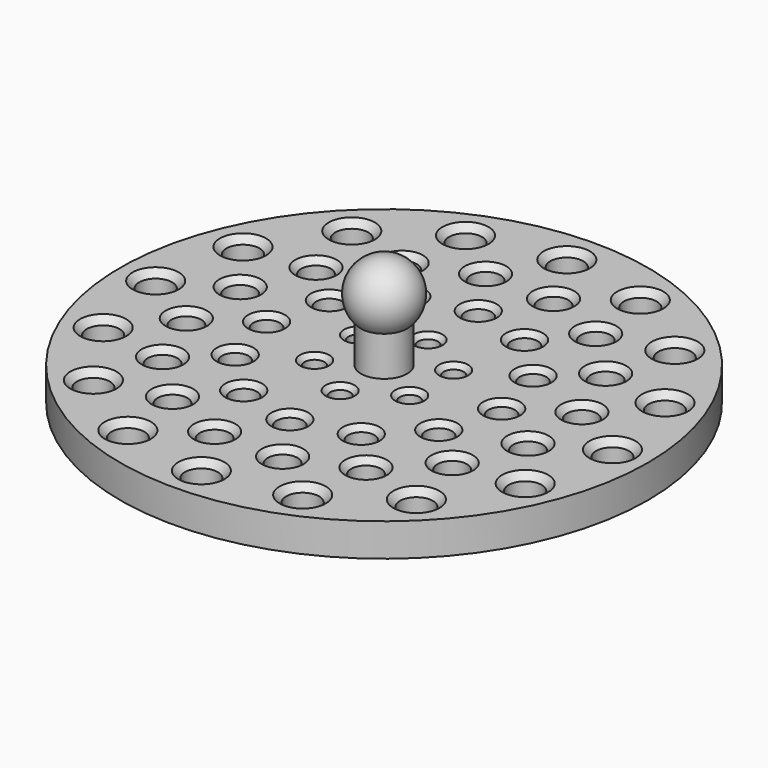
from build123d import *

# Parameters (mm, degrees)
F0_R     = 40
F0_R_2   = 2.5
F0_R_3   = 2.25
F0_R_4   = 2
F0_R_5   = 1.5
F0_R_6   = 3.5
F1_DEPTH = 5
F2_DEPTH = 15
F3_SIZE  = 1
F4_SIZE  = 0.9
F5_SIZE  = 0.8
F6_SIZE  = 0.7


with BuildPart() as f1:
    # F0 (on Top) → F1 (new body)
    with BuildSketch(Plane.XY):
        Circle(F0_R)
        with Locations((-24.473611, -24.473611)):
            Circle(F0_R_2, mode=Mode.SUBTRACT)
        with Locations((-13.245023, -31.976313)):
            Circle(F0_R_2, mode=Mode.SUBTRACT)
        with Locations((-14.518312, -21.934777)):
            Circle(F0_R_3, mode=Mode.SUBTRACT)
        with Locations((-5.019096, -25.821009)):
            Circle(F0_R_3, mode=Mode.SUBTRACT)
        with Locations((-31.976313, -13.245023)):
            Circle(F0_R_2, mode=Mode.SUBTRACT)
        with Locations((-21.807248, -14.709174)):
            Circle(F0_R_3, mode=Mode.SUBTRACT)
        with Locations((-25.776227, -5.244233)):
            Circle(F0_R_3, mode=Mode.SUBTRACT)
        with Locations((-8.927124, -15.431071)):
            Circle(F0_R_4, mode=Mode.SUBTRACT)
        with Locations((-0.015581, -17.827261)):
            Circle(F0_R_4, mode=Mode.SUBTRACT)
        with Locations((-15.446652, -8.900137)):
            Circle(F0_R_4, mode=Mode.SUBTRACT)
        with Locations((-7.208652, -4.161917)):
            Circle(F0_R_5, mode=Mode.SUBTRACT)
        with Locations((0, -34.610912)):
            Circle(F0_R_2, mode=Mode.SUBTRACT)
        with Locations((13.245023, -31.976313)):
            Circle(F0_R_2, mode=Mode.SUBTRACT)
        with Locations((5.244233, -25.776227)):
            Circle(F0_R_3, mode=Mode.SUBTRACT)
        with Locations((14.709174, -21.807248)):
            Circle(F0_R_3, mode=Mode.SUBTRACT)
        with Locations((24.473611, -24.473611)):
            Circle(F0_R_2, mode=Mode.SUBTRACT)
        with Locations((8.900137, -15.446652)):
            Circle(F0_R_4, mode=Mode.SUBTRACT)
        with Locations((0, -8.323834)):
            Circle(F0_R_5, mode=Mode.SUBTRACT)
        with Locations((7.208652, -4.161917)):
            Circle(F0_R_5, mode=Mode.SUBTRACT)
        with Locations((15.431071, -8.927124)):
            Circle(F0_R_4, mode=Mode.SUBTRACT)
        with Locations((17.827261, -0.015581)):
            Circle(F0_R_4, mode=Mode.SUBTRACT)
        with Locations((21.934777, -14.518312)):
            Circle(F0_R_3, mode=Mode.SUBTRACT)
        with Locations((31.976313, -13.245023)):
            Circle(F0_R_2, mode=Mode.SUBTRACT)
        with Locations((25.821009, -5.019096)):
            Circle(F0_R_3, mode=Mode.SUBTRACT)
        with Locations((-34.610912, 0)):
            Circle(F0_R_2, mode=Mode.SUBTRACT)
        with Locations((-25.821009, 5.019096)):
            Circle(F0_R_3, mode=Mode.SUBTRACT)
        with Locations((-31.976313, 13.245023)):
            Circle(F0_R_2, mode=Mode.SUBTRACT)
        with Locations((-21.934777, 14.518312)):
            Circle(F0_R_3, mode=Mode.SUBTRACT)
        with Locations((-17.827261, 0.015581)):
            Circle(F0_R_4, mode=Mode.SUBTRACT)
        with Locations((-15.431071, 8.927124)):
            Circle(F0_R_4, mode=Mode.SUBTRACT)
        with Locations((-7.208652, 4.161917)):
            Circle(F0_R_5, mode=Mode.SUBTRACT)
        with Locations((-8.900137, 15.446652)):
            Circle(F0_R_4, mode=Mode.SUBTRACT)
        with Locations((-24.473611, 24.473611)):
            Circle(F0_R_2, mode=Mode.SUBTRACT)
        with Locations((-14.709174, 21.807248)):
            Circle(F0_R_3, mode=Mode.SUBTRACT)
        with Locations((-5.244233, 25.776227)):
            Circle(F0_R_3, mode=Mode.SUBTRACT)
        with Locations((-13.245023, 31.976313)):
            Circle(F0_R_2, mode=Mode.SUBTRACT)
        Circle(F0_R_6, mode=Mode.SUBTRACT)
        with Locations((7.208652, 4.161917)):
            Circle(F0_R_5, mode=Mode.SUBTRACT)
        with Locations((0, 8.323834)):
            Circle(F0_R_5, mode=Mode.SUBTRACT)
        with Locations((15.446652, 8.900137)):
            Circle(F0_R_4, mode=Mode.SUBTRACT)
        with Locations((0.015581, 17.827261)):
            Circle(F0_R_4, mode=Mode.SUBTRACT)
        with Locations((8.927124, 15.431071)):
            Circle(F0_R_4, mode=Mode.SUBTRACT)
        with Locations((25.776227, 5.244233)):
            Circle(F0_R_3, mode=Mode.SUBTRACT)
        with Locations((34.610912, 0)):
            Circle(F0_R_2, mode=Mode.SUBTRACT)
        with Locations((21.807248, 14.709174)):
            Circle(F0_R_3, mode=Mode.SUBTRACT)
        with Locations((31.976313, 13.245023)):
            Circle(F0_R_2, mode=Mode.SUBTRACT)
        with Locations((5.019096, 25.821009)):
            Circle(F0_R_3, mode=Mode.SUBTRACT)
        with Locations((14.518312, 21.934777)):
            Circle(F0_R_3, mode=Mode.SUBTRACT)
        with Locations((0, 34.610912)):
            Circle(F0_R_2, mode=Mode.SUBTRACT)
        with Locations((13.245023, 31.976313)):
            Circle(F0_R_2, mode=Mode.SUBTRACT)
        with Locations((24.473611, 24.473611)):
            Circle(F0_R_2, mode=Mode.SUBTRACT)
    extrude(amount=F1_DEPTH)

    # F0 (on Top) → F2 (join)
    with BuildSketch(Plane.XY):
        Circle(F0_R_6)
    extrude(amount=F2_DEPTH)

    # F3
    f3_edges = [f1.edges().sort_by_distance(p)[0] for p in [
        (-37.110912, 0, 5),
        (-34.476313, 13.245023, 5),
        (-26.973611, 24.473611, 5),
        (-15.745023, 31.976313, 5),
        (-2.5, 34.610912, 5),
        (10.745023, 31.976313, 5),
        (21.973611, 24.473611, 5),
        (29.476313, 13.245023, 5),
        (32.110912, 0, 5),
        (29.476313, -13.245023, 5),
        (21.973611, -24.473611, 5),
        (10.745023, -31.976313, 5),
        (-2.5, -34.610912, 5),
        (-15.745023, -31.976313, 5),
        (-26.973611, -24.473611, 5),
        (-34.476313, -13.245023, 5),
    ]]
    chamfer(f3_edges, length=F3_SIZE)

    # F4
    f4_edges = [f1.edges().sort_by_distance(p)[0] for p in [
        (-24.184777, 14.518312, 5),
        (-16.959174, 21.807248, 5),
        (2.769096, 25.821009, 5),
        (12.268312, 21.934777, 5),
        (19.557248, 14.709174, 5),
        (23.526227, 5.244233, 5),
        (23.571009, -5.019096, 5),
        (19.684777, -14.518312, 5),
        (12.459174, -21.807248, 5),
        (2.994233, -25.776227, 5),
        (-7.269096, -25.821009, 5),
        (-16.768312, -21.934777, 5),
        (-24.057248, -14.709174, 5),
        (-28.026227, -5.244233, 5),
        (-28.071009, 5.019096, 5),
        (-7.494233, 25.776227, 5),
    ]]
    chamfer(f4_edges, length=F4_SIZE)

    # F5
    f5_edges = [f1.edges().sort_by_distance(p)[0] for p in [
        (-17.431071, 8.927124, 5),
        (-10.900137, 15.446652, 5),
        (-1.984419, 17.827261, 5),
        (6.927124, 15.431071, 5),
        (13.446652, 8.900137, 5),
        (15.827261, -0.015581, 5),
        (13.431071, -8.927124, 5),
        (6.900137, -15.446652, 5),
        (-2.015581, -17.827261, 5),
        (-10.927124, -15.431071, 5),
        (-17.446652, -8.900137, 5),
        (-19.827261, 0.015581, 5),
    ]]
    chamfer(f5_edges, length=F5_SIZE)

    # F6
    f6_edges = [f1.edges().sort_by_distance(p)[0] for p in [
        (-1.5, 8.323834, 5),
        (5.708652, 4.161917, 5),
        (5.708652, -4.161917, 5),
        (-1.5, -8.323834, 5),
        (-8.708652, -4.161917, 5),
        (-8.708652, 4.161917, 5),
    ]]
    chamfer(f6_edges, length=F6_SIZE)


with BuildPart() as f8:
    # F7 (on Front) → F8 (revolve)
    with BuildSketch(Plane.XZ):
        with BuildLine():
            Line((0, 9.556734), (0, 19.556734))
            ThreePointArc((0, 19.556734), (-5, 14.556734), (0, 9.556734))
        make_face()
    revolve(axis=Axis((0, 0, 14.556734), (0, 0, -1)))


solid = Compound([f1.part, f8.part])
